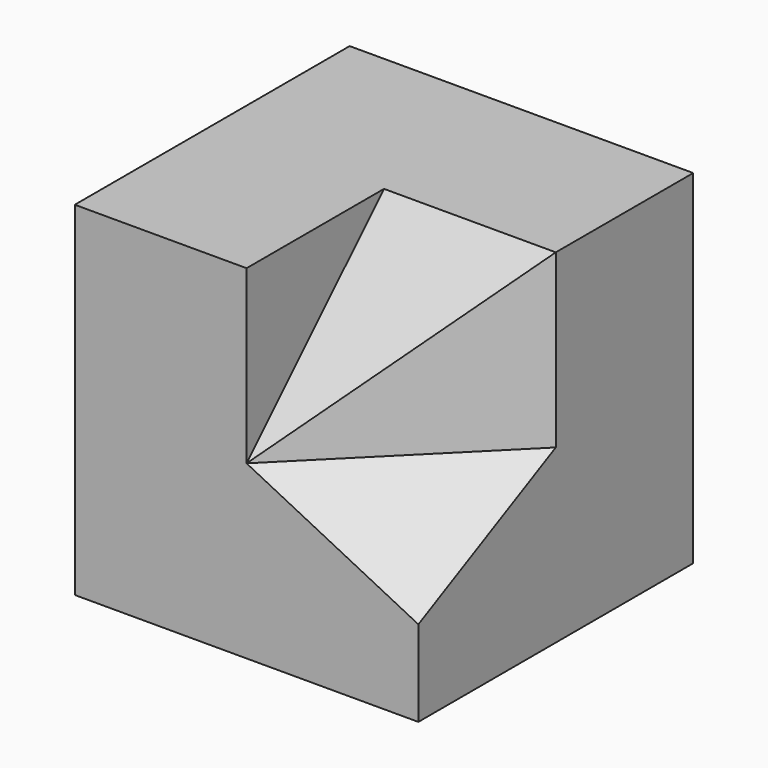
from build123d import *

# Parameters (mm, degrees)
F0_W      = 40
F0_H      = 40
F1_DEPTH  = 40
F2_W      = 20
F2_H      = 20
F3_DEPTH  = 20
F7_DEPTH  = 24.4958974278
F9_DEPTH  = 20
F11_DEPTH = 20


with BuildPart() as f1:
    # F0 (on Front) → F1 (new body)
    with BuildSketch(Plane.XZ):
        with Locations((20, 20)):
            Rectangle(F0_W, F0_H)
    extrude(amount=F1_DEPTH)

    # F2 (on face) → F3 (cut)
    with BuildSketch(Plane.XZ.offset(40)):
        with Locations((30, 30)):
            Rectangle(F2_W, F2_H)
    extrude(amount=-F3_DEPTH, mode=Mode.SUBTRACT)

    # F6 (on 3pt) → F7 (cut, through all)
    with BuildSketch(Plane(origin=(16.6666666667, -16.6666666667, 33.3333333333), x_dir=(0.9128709292, 0.1825741858, -0.3651483717), z_dir=(-0.4082482905, 0.4082482905, -0.8164965809))):
        Polygon((3.6514837167, 26.83281573), (25.5603860169, 8.94427191), (25.5603860169, 31.304951685), align=None)
    extrude(amount=-F7_DEPTH, mode=Mode.SUBTRACT)

    # F8 (on face) → F9 (join, through all)
    with BuildSketch(Plane.YZ.offset(20)):
        Polygon((-20, 20), (-20, 40), (-40, 20), align=None)
    extrude(amount=F9_DEPTH)

    # F10 (on face) → F11 (cut, through all)
    with BuildSketch(Plane(origin=(0, 0, 20), x_dir=(1, 0, 0), z_dir=(0, 0, -1))):
        Polygon((20, 40), (40, 20), (40, 40), align=None)
    extrude(amount=-F11_DEPTH, mode=Mode.SUBTRACT)


solid = f1.part
